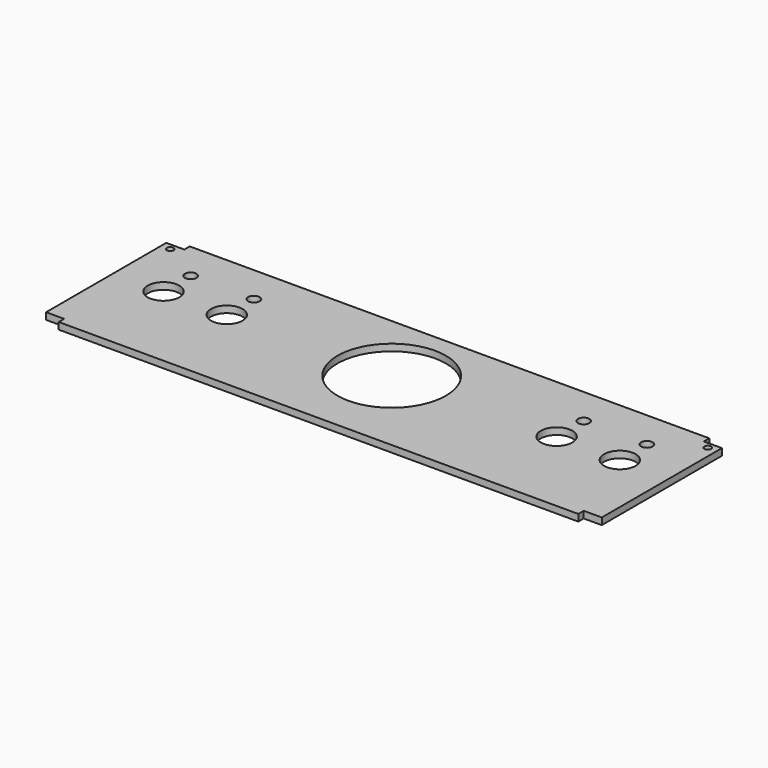
from build123d import *

# Parameters (mm, degrees)
SKETCH_R   = 24
SKETCH_R_2 = 7
SKETCH_R_3 = 2.55
SKETCH_R_4 = 1.5
PAD_DEPTH  = 3


with BuildPart() as part:
    # Sketch → Pad (new body)
    with BuildSketch(Plane.XY):
        Polygon((-123, 33.25), (-115, 33.25), (-115, 36.25), (115, 36.25), (115, 33.25), (123, 33.25), (123, -33.25), (115, -33.25), (115, -36.25), (-115, -36.25), (-115, -33.25), (-123, -33.25), align=None)
        with Locations((0, 4.25)):
            Circle(SKETCH_R, mode=Mode.SUBTRACT)
        with Locations((-101, 4.25)):
            Circle(SKETCH_R_2, mode=Mode.SUBTRACT)
        with Locations((-73, 4.25)):
            Circle(SKETCH_R_2, mode=Mode.SUBTRACT)
        with Locations((73, 4.25)):
            Circle(SKETCH_R_2, mode=Mode.SUBTRACT)
        with Locations((101, 4.25)):
            Circle(SKETCH_R_2, mode=Mode.SUBTRACT)
        with Locations((-101, 19.25)):
            Circle(SKETCH_R_3, mode=Mode.SUBTRACT)
        with Locations((-73, 19.25)):
            Circle(SKETCH_R_3, mode=Mode.SUBTRACT)
        with Locations((73, 19.25)):
            Circle(SKETCH_R_3, mode=Mode.SUBTRACT)
        with Locations((101, 19.25)):
            Circle(SKETCH_R_3, mode=Mode.SUBTRACT)
        with Locations((-119, 30.45)):
            Circle(SKETCH_R_4, mode=Mode.SUBTRACT)
        with Locations((119, 30.45)):
            Circle(SKETCH_R_4, mode=Mode.SUBTRACT)
    extrude(amount=PAD_DEPTH)


solid = part.part
